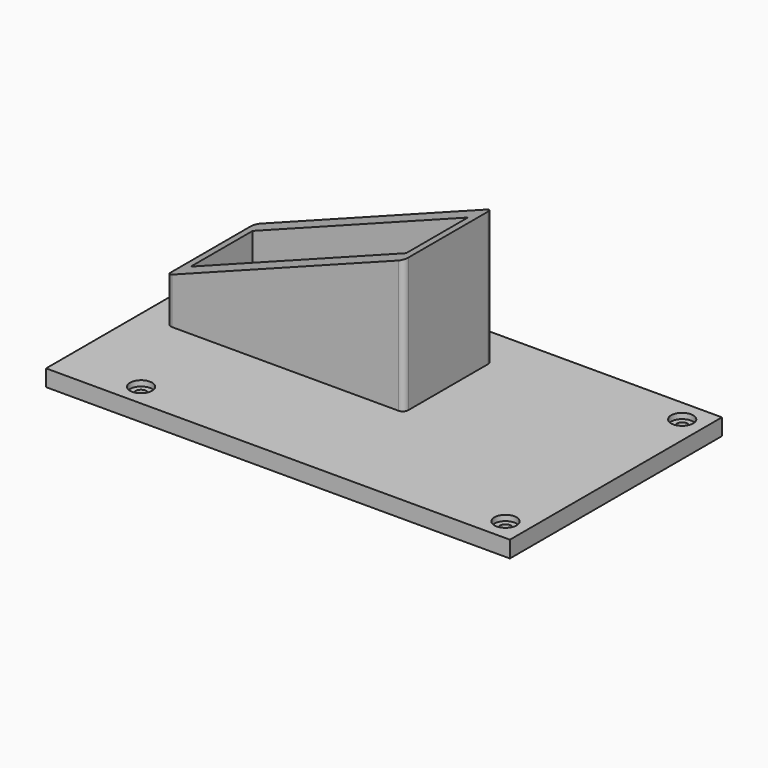
from build123d import *

# Parameters (mm, degrees)
SKETCH_W        = 84
SKETCH_H        = 48
PAD_DEPTH       = 3
SKETCH001_R     = 1
POCKET_DEPTH    = 5
SKETCH002_R     = 2
POCKET001_DEPTH = 1
SKETCH003_W     = 43
SKETCH003_H     = 20
SKETCH003_W_2   = 39
SKETCH003_H_2   = 14
PAD001_DEPTH    = 25
SKETCH004_W     = 6
SKETCH004_H     = 2
POCKET002_DEPTH = 5
SKETCH005_R     = 3
SKETCH005_R_2   = 1
PAD002_DEPTH    = 5
FILLET_R        = 1
FILLET001_R     = 1
FILLET002_R     = 1
FILLET003_R     = 1
POCKET003_DEPTH = 30


with BuildPart() as part:
    # Sketch → Pad (new body)
    with BuildSketch(Plane.XY):
        with Locations((42, 24)):
            Rectangle(SKETCH_W, SKETCH_H)
    extrude(amount=PAD_DEPTH)

    # Sketch001 → Pocket (cut)
    with BuildSketch(Plane.XY.offset(3)):
        with Locations((14, 4)):
            Circle(SKETCH001_R)
        with Locations((14, 44)):
            Circle(SKETCH001_R)
        with Locations((80, 44)):
            Circle(SKETCH001_R)
        with Locations((80, 4)):
            Circle(SKETCH001_R)
    extrude(amount=-POCKET_DEPTH, mode=Mode.SUBTRACT)

    # Sketch002 → Pocket001 (cut)
    with BuildSketch(Plane.XY.offset(3)):
        with Locations((14, 44)):
            Circle(SKETCH002_R)
        with Locations((80, 44)):
            Circle(SKETCH002_R)
        with Locations((14, 4)):
            Circle(SKETCH002_R)
        with Locations((80, 4)):
            Circle(SKETCH002_R)
    extrude(amount=-POCKET001_DEPTH, mode=Mode.SUBTRACT)

    # Sketch003 → Pad001 (new body)
    with BuildSketch(Plane.XY.offset(3)):
        with Locations((26.5, 31)):
            Rectangle(SKETCH003_W, SKETCH003_H)
        with Locations((26.5, 31)):
            Rectangle(SKETCH003_W_2, SKETCH003_H_2, mode=Mode.SUBTRACT)
    extrude(amount=PAD001_DEPTH)

    # Sketch004 → Pocket002 (cut)
    with BuildSketch(Plane.XY.offset(3)):
        with Locations((33, 36)):
            Rectangle(SKETCH004_W, SKETCH004_H)
    extrude(amount=-POCKET002_DEPTH, mode=Mode.SUBTRACT)

    # Sketch005 → Pad002 (new body)
    with BuildSketch(Plane.XY.offset(3)):
        with Locations((11, 31)):
            Circle(SKETCH005_R)
        with Locations((11, 31)):
            Circle(SKETCH005_R_2, mode=Mode.SUBTRACT)
        with Locations((42, 31)):
            Circle(SKETCH005_R)
        with Locations((42, 31)):
            Circle(SKETCH005_R_2, mode=Mode.SUBTRACT)
    extrude(amount=PAD002_DEPTH)

    # Fillet
    fillet_edges = [part.edges().sort_by_distance(p)[0] for p in [
        (48, 41, 15.5),
    ]]
    fillet(fillet_edges, radius=FILLET_R)

    # Fillet001
    fillet001_edges = [part.edges().sort_by_distance(p)[0] for p in [
        (5, 41, 15.5),
    ]]
    fillet(fillet001_edges, radius=FILLET001_R)

    # Fillet002
    fillet002_edges = [part.edges().sort_by_distance(p)[0] for p in [
        (5, 21, 15.5),
    ]]
    fillet(fillet002_edges, radius=FILLET002_R)

    # Fillet003
    fillet003_edges = [part.edges().sort_by_distance(p)[0] for p in [
        (48, 21, 15.5),
    ]]
    fillet(fillet003_edges, radius=FILLET003_R)

    # Sketch006 → Pocket003 (cut)
    with BuildSketch(Plane.XZ.offset(-21)):
        Polygon((2.408178, 29), (52.408178, 29), (2.408178, 10), align=None)
    extrude(amount=-POCKET003_DEPTH, mode=Mode.SUBTRACT)


solid = part.part
